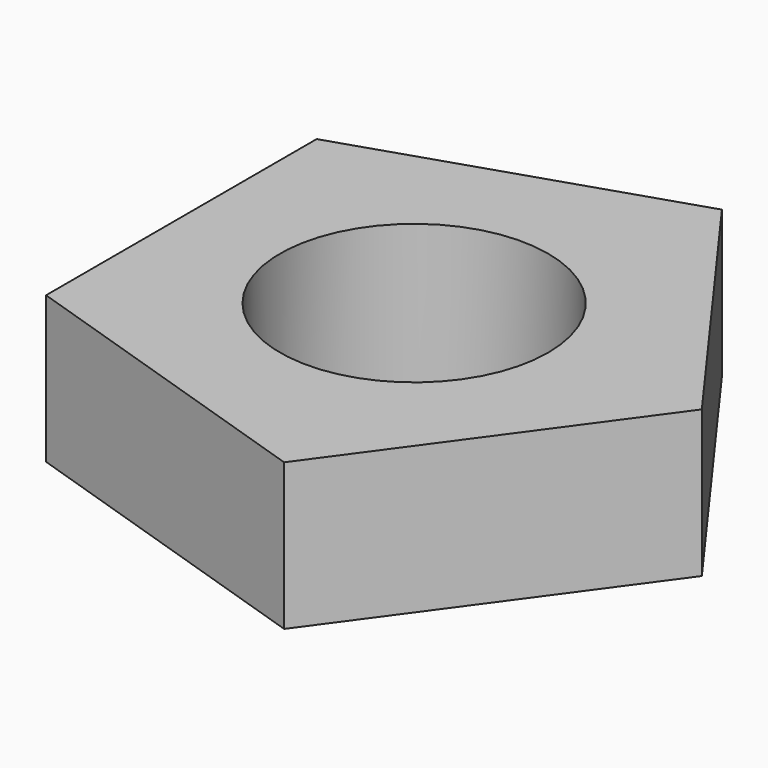
from build123d import *

# Parameters (mm, degrees)
F0_R     = 23.214461
F1_DEPTH = 25.4


with BuildPart() as f1:
    # F0 (on Top) → F1 (new body)
    with BuildSketch(Plane.XY):
        Polygon((-40.301334, 29.280633), (-40.301334, -29.280633), (15.39374, -47.37706), (49.815189, 0), (15.39374, 47.37706), align=None)
        Circle(F0_R, mode=Mode.SUBTRACT)
    extrude(amount=F1_DEPTH)


solid = f1.part
